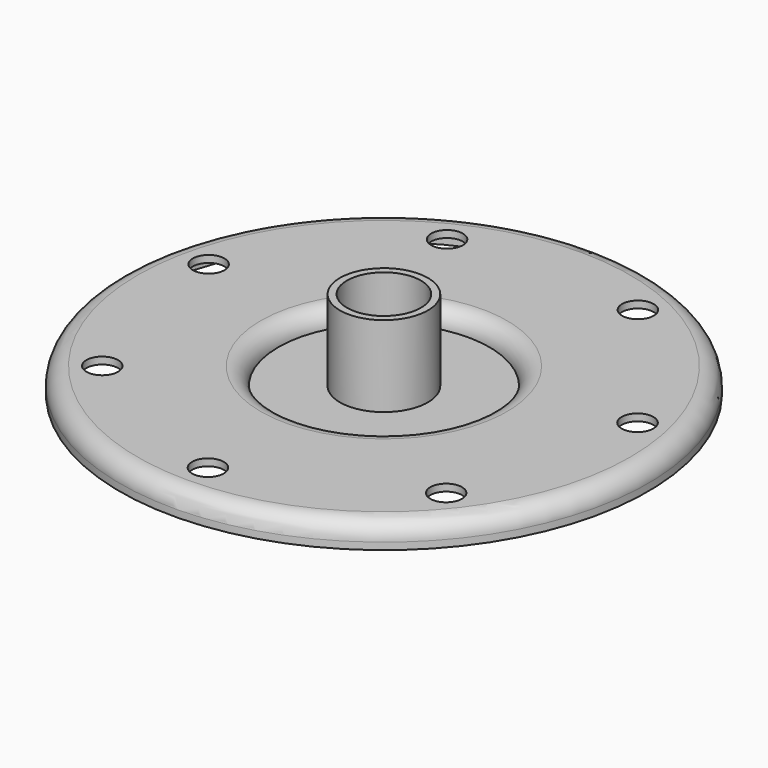
from build123d import *

# Parameters (mm, degrees)
F2_R     = 4.5
F3_DEPTH = 25
F4_R     = 3


with BuildPart() as f1:
    # F0 (on Front) → F1 (revolve)
    with BuildSketch(Plane.XZ):
        with BuildLine():
            ThreePointArc((-30, 0), (-31.464466, 3.535534), (-35, 5))
            Line((-35, 5), (-70, 5))
            ThreePointArc((-70, 5), (-73.535534, 3.535534), (-75, 0))
            Line((-75, 0), (-75, -2))
            Line((-75, -2), (-73, -2))
            Line((-73, -2), (-73, 0))
            ThreePointArc((-73, 0), (-72.12132, 2.12132), (-70, 3))
            Line((-70, 3), (-35, 3))
            ThreePointArc((-35, 3), (-32.87868, 2.12132), (-32, 0))
            Line((-32, 0), (-32, -2))
            Line((-32, -2), (-10.5, -2))
            Line((-10.5, -2), (-10.5, 23))
            Line((-10.5, 23), (-12.5, 23))
            Line((-12.5, 23), (-12.5, 0))
            Line((-12.5, 0), (-30, 0))
        make_face()
    revolve(axis=Axis((0, 0, 11.5), (0, 0, 1)))

    # F2 (on Top) → F3 (cut)
    with BuildSketch(Plane.XY):
        with Locations((0, -62.5)):
            Circle(F2_R)
        with Locations((48.864468, -38.968113)):
            Circle(F2_R)
        with Locations((60.932995, 13.907558)):
            Circle(F2_R)
        with Locations((27.117734, 56.310554)):
            Circle(F2_R)
        with Locations((-27.117734, 56.310554)):
            Circle(F2_R)
        with Locations((-60.932995, 13.907558)):
            Circle(F2_R)
        with Locations((-48.864468, -38.968113)):
            Circle(F2_R)
    extrude(amount=F3_DEPTH, mode=Mode.SUBTRACT)

    # F4
    f4_edges = [f1.edges().sort_by_distance(p)[0] for p in [
        (32, 0, -2),
    ]]
    fillet(f4_edges, radius=F4_R)


solid = f1.part
